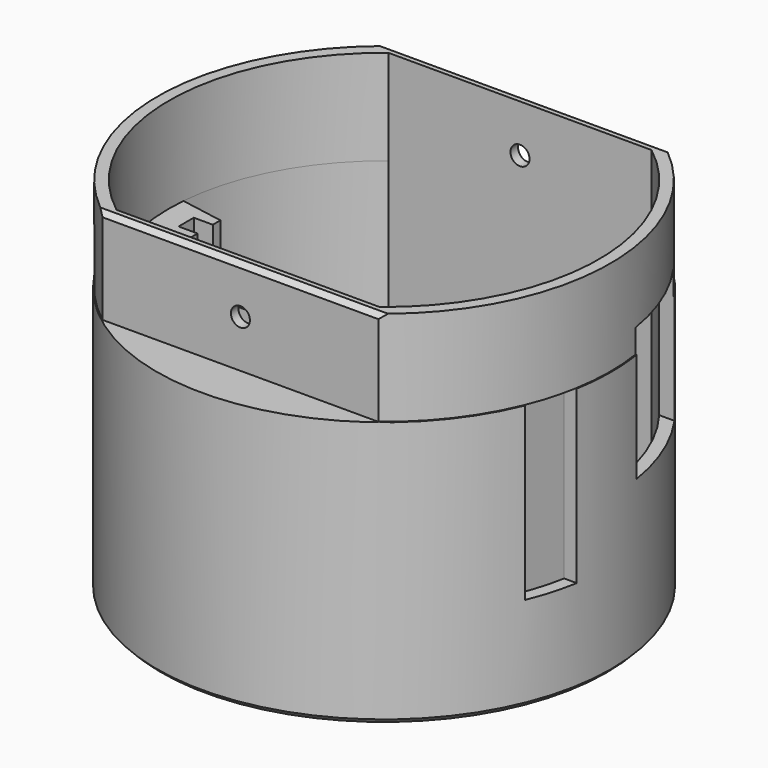
from build123d import *

# Parameters (mm, degrees)
PAD022_DEPTH    = 10
CHAMFER009_SIZE = 0.5
SKETCH040_R     = 23.9
SKETCH040_R_2   = 22.6
PAD023_DEPTH    = 24
SKETCH041_R     = 23.5
SKETCH041_W     = 20
SKETCH041_H     = 7.75
PAD024_DEPTH    = 24
SKETCH042_R     = 23.9
PAD025_DEPTH    = 4
CHAMFER010_SIZE = 0.5
SKETCH043_R     = 1.5
POCKET013_DEPTH = 15
SKETCH044_R     = 1
POCKET014_DEPTH = 100
SKETCH045_R     = 1.25
POCKET015_DEPTH = 15
SKETCH052_W     = 5
SKETCH052_H     = 18
POCKET019_DEPTH = 41
SKETCH055_W     = 10
SKETCH055_H     = 14
POCKET021_DEPTH = 33


with BuildPart() as part:
    # Sketch039 → Pad022 (new body)
    with BuildSketch(Plane.XY):
        with BuildLine():
            ThreePointArc((-14.5, 18.872997), (-23.8, 0), (-14.5, -18.872997))
            Line((-14.5, -18.872997), (14.5, -18.872997))
            ThreePointArc((14.5, -18.872997), (23.8, 0), (14.5, 18.872997))
            Line((-14.5, 18.872997), (14.5, 18.872997))
        make_face()
        with BuildLine():
            ThreePointArc((-13.831702, 17.872997), (-22.6, 0), (-13.831702, -17.872997))
            Line((13.831702, -17.872997), (-13.831702, -17.872997))
            ThreePointArc((13.831702, -17.872997), (22.6, 0), (13.831702, 17.872997))
            Line((-13.831702, 17.872997), (13.831702, 17.872997))
        make_face(mode=Mode.SUBTRACT)
    extrude(amount=PAD022_DEPTH)

    # Chamfer009
    chamfer009_edges = [part.edges().sort_by_distance(p)[0] for p in [
        (0, -18.872997, 10),
        (0, 18.872997, 10),
    ]]
    chamfer(chamfer009_edges, length=CHAMFER009_SIZE)

    # Sketch040 (on Face4 of Chamfer009) → Pad023 (join)
    with BuildSketch(Plane(origin=(0, 0, 0), x_dir=(1, 0, 0), z_dir=(0, 0, -1))):
        Circle(SKETCH040_R)
        Circle(SKETCH040_R_2, mode=Mode.SUBTRACT)
    extrude(amount=PAD023_DEPTH)

    # Sketch041 (on Face4 of Pad023) → Pad024 (join)
    with BuildSketch(Plane.XY):
        Circle(SKETCH041_R)
        with BuildLine():
            Line((-22.528563, 1.795511), (-18, 0.997003))
            Line((-18, 0.997003), (-18, -0.002997))
            Line((-18, -0.002997), (-20, -0.002997))
            Line((-20, -0.002997), (-20, -2.002997))
            Line((-18, -2.002997), (-20, -2.002997))
            Line((-18, -2.002997), (-18, -3.002997))
            Line((-18, -3.002997), (-22.225594, -4.096705))
            ThreePointArc((-22.225594, -4.096705), (-21.597921, -6.655058), (-20.676821, -9.122997))
            Line((-20.676821, -9.122997), (20.676821, -9.122997))
            ThreePointArc((20.676821, -9.122997), (21.597428, -6.656659), (22.224986, -4.1))
            Line((16, -3), (22.224986, -4.1))
            Line((16, -2), (16, -3))
            Line((18, -2), (16, -2))
            Line((18, 0), (18, -2))
            Line((18, 0), (16, 0))
            Line((16, 0), (16, 1))
            Line((16, 1), (22.528205, 1.8))
            ThreePointArc((22.528205, 1.8), (19.877022, 10.754719), (13.831702, 17.872997))
            Line((13.831702, 17.872997), (-13.831702, 17.872997))
            ThreePointArc((-13.831702, 17.872997), (-19.878094, 10.752739), (-22.528563, 1.795511))
        make_face(mode=Mode.SUBTRACT)
        with Locations((0, -13.997997)):
            Rectangle(SKETCH041_W, SKETCH041_H, mode=Mode.SUBTRACT)
    extrude(amount=-PAD024_DEPTH)

    # Sketch042 (on Face49 of Pad024) → Pad025 (join)
    with BuildSketch(Plane(origin=(0, 0, -24), x_dir=(1, 0, 0), z_dir=(0, 0, -1))):
        Circle(SKETCH042_R)
    extrude(amount=PAD025_DEPTH)

    # Chamfer010
    chamfer010_edges = [part.edges().sort_by_distance(p)[0] for p in [
        (-23.9, 0, -28),
    ]]
    chamfer(chamfer010_edges, length=CHAMFER010_SIZE)

    # Sketch043 (on Face4 of Chamfer010) → Pocket013 (cut)
    with BuildSketch(Plane(origin=(0, 0, -28), x_dir=(1, 0, 0), z_dir=(0, 0, -1))):
        with Locations((-15.75, 11.916375)):
            Circle(SKETCH043_R)
        with Locations((15.75, 11.916375)):
            Circle(SKETCH043_R)
        with Locations((0, -19.75)):
            Circle(SKETCH043_R)
    extrude(amount=-POCKET013_DEPTH, mode=Mode.SUBTRACT)

    # Sketch044 (on Face9 of Pocket013) → Pocket014 (cut)
    with BuildSketch(Plane.XZ.offset(18.872997)):
        with Locations((0, 5)):
            Circle(SKETCH044_R)
    extrude(amount=-POCKET014_DEPTH, mode=Mode.SUBTRACT)

    # Sketch045 (on Face29 of Pocket014) → Pocket015 (cut)
    with BuildSketch(Plane.XY):
        with Locations((12.5, -15)):
            Circle(SKETCH045_R)
        with Locations((-12.5, -15)):
            Circle(SKETCH045_R)
    extrude(amount=-POCKET015_DEPTH, mode=Mode.SUBTRACT)

    # Sketch052 → Pocket019 (cut)
    with BuildSketch(Plane.YZ):
        with Locations((-6.6, -9)):
            Rectangle(SKETCH052_W, SKETCH052_H)
    extrude(amount=POCKET019_DEPTH, mode=Mode.SUBTRACT)

    # Sketch055 → Pocket021 (cut)
    with BuildSketch(Plane.YZ):
        with Locations((8.7, -4.5)):
            Rectangle(SKETCH055_W, SKETCH055_H)
    extrude(amount=POCKET021_DEPTH, mode=Mode.SUBTRACT)


with BuildPart() as part_1:
    # Body017 placement: moved
    add(part.part.moved(Location((0, 0, 200.3))))


solid = part_1.part
